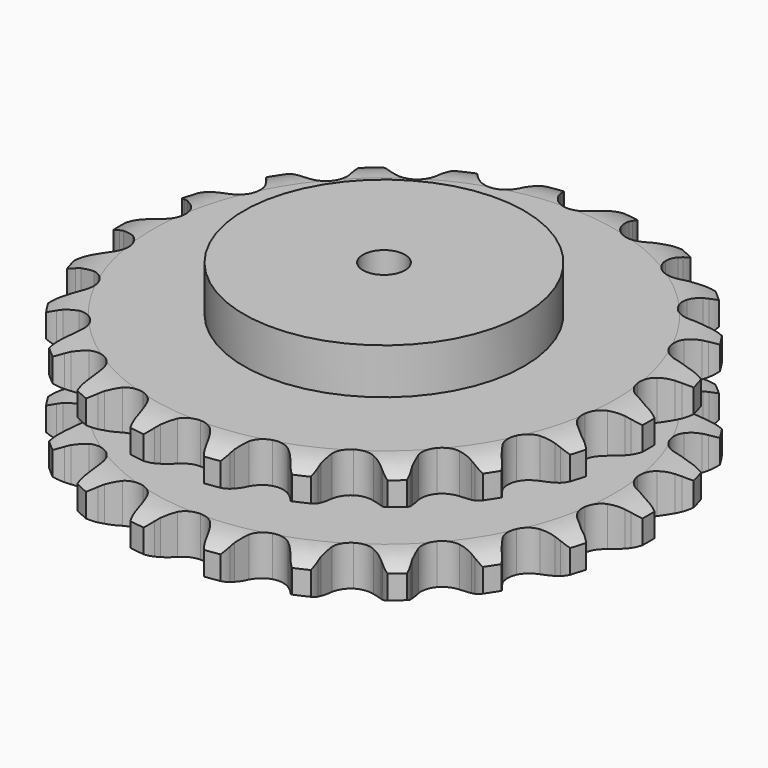
from build123d import *

# Parameters (mm, degrees)
PAD_DEPTH         = 87.4
SKETCH001_R       = 100
PAD001_DEPTH      = 120
SKETCH002_R       = 15
POCKET_DEPTH      = 0.001
POCKET_DEPTH_BACK = 120.001


with BuildPart() as part:
    # Sprocket → Pad (new body)
    with BuildSketch(Plane.XY):
        with BuildLine():
            ThreePointArc((-27.768956, 193.137329), (-22.075278, 188.222969), (-18.173572, 181.792914))
            Line((-18.173572, 181.792914), (-16.76017, 178.342005))
            ThreePointArc((-16.76017, 178.342005), (-14.499312, 173.734425), (-11.639459, 169.472675))
            ThreePointArc((-11.639459, 169.472675), (-6.482586, 165.26615), (0, 163.761399))
            ThreePointArc((0, 163.761399), (6.482586, 165.26615), (11.639459, 169.472675))
            ThreePointArc((11.639459, 169.472675), (14.499312, 173.734425), (16.76017, 178.342005))
            Line((16.76017, 178.342005), (18.173572, 181.792914))
            ThreePointArc((18.173572, 181.792914), (22.075278, 188.222969), (27.768956, 193.137329))
            ThreePointArc((27.768956, 193.137329), (31.847464, 186.81794), (33.779568, 179.549111))
            Line((33.779568, 179.549111), (34.163484, 175.839787))
            ThreePointArc((34.163484, 175.839787), (35.034655, 170.781888), (36.57799, 165.887055))
            ThreePointArc((36.57799, 165.887055), (40.340859, 160.398065), (46.136918, 157.127912))
            ThreePointArc((46.136918, 157.127912), (52.780851, 156.745354), (58.913949, 159.328626))
            Line((58.913949, 159.328626), (66.326015, 166.396016))
            ThreePointArc((66.326015, 166.396016), (67.454531, 167.880992), (68.654398, 169.308937))
            ThreePointArc((68.654398, 169.308937), (74.209612, 174.379291), (81.057191, 177.490491))
            ThreePointArc((81.057191, 177.490491), (83.190114, 170.278034), (82.996088, 162.759306))
            Line((82.996088, 162.759306), (82.319415, 159.092074))
            ThreePointArc((82.319415, 159.092074), (81.730324, 153.993619), (81.832109, 148.862253))
            ThreePointArc((81.832109, 148.862253), (83.896128, 142.535483), (88.536097, 137.764856))
            ThreePointArc((88.536097, 137.764856), (94.803125, 135.525982), (101.415582, 136.276719))
            Line((101.415582, 136.276719), (110.51852, 140.96961))
            ThreePointArc((110.51852, 140.96961), (112.01969, 142.076495), (113.573252, 143.108556))
            ThreePointArc((113.573252, 143.108556), (120.331925, 146.408441), (127.778656, 147.46443))
            ThreePointArc((127.778656, 147.46443), (127.793196, 139.943213), (125.488759, 132.783711))
            Line((125.488759, 132.783711), (123.806317, 129.455668))
            ThreePointArc((123.806317, 129.455668), (121.804687, 124.729702), (120.456677, 119.777517))
            ThreePointArc((120.456677, 119.777517), (120.654631, 113.125524), (123.762608, 107.24091))
            ThreePointArc((123.762608, 107.24091), (129.145013, 103.327101), (135.701127, 102.184483))
            Line((135.701127, 102.184483), (145.757472, 104.122685))
            ThreePointArc((145.757472, 104.122685), (147.509679, 104.761805), (149.291077, 105.314372))
            ThreePointArc((149.291077, 105.314372), (156.705661, 106.576449), (164.148253, 105.491677))
            ThreePointArc((164.148253, 105.491677), (162.043233, 98.271026), (157.815077, 92.050769))
            Line((157.815077, 92.050769), (155.263168, 89.331533))
            ThreePointArc((155.263168, 89.331533), (152.01116, 85.360927), (149.322561, 80.989118))
            ThreePointArc((149.322561, 80.989118), (147.638414, 74.550807), (148.962608, 68.028944))
            ThreePointArc((148.962608, 68.028944), (153.024341, 62.757272), (158.992973, 59.813869))
            Line((158.992973, 59.813869), (169.188021, 58.84036))
            ThreePointArc((169.188021, 58.84036), (171.049312, 58.959937), (172.914226, 58.988243))
            ThreePointArc((172.914226, 58.988243), (180.384036, 58.110268), (187.219535, 54.972616))
            ThreePointArc((187.219535, 54.972616), (183.165491, 48.637505), (177.356156, 43.860421))
            Line((177.356156, 43.860421), (174.14152, 41.970289))
            ThreePointArc((174.14152, 41.970289), (169.902592, 39.076717), (166.091219, 35.639463))
            ThreePointArc((166.091219, 35.639463), (162.661411, 29.936428), (162.094544, 23.305677))
            ThreePointArc((162.094544, 23.305677), (164.506547, 17.103223), (169.404155, 12.59749))
            Line((169.404155, 12.59749), (178.911962, 8.791138))
            ThreePointArc((178.911962, 8.791138), (180.731547, 8.381485), (182.528894, 7.883238))
            ThreePointArc((182.528894, 7.883238), (189.44877, 4.936338), (195.123404, 0))
            ThreePointArc((195.123404, 0), (189.44877, -4.936338), (182.528894, -7.883238))
            Line((182.528894, -7.883238), (178.911962, -8.791138))
            ThreePointArc((178.911962, -8.791138), (174.029526, -10.373256), (169.404155, -12.59749))
            ThreePointArc((169.404155, -12.59749), (164.506547, -17.103223), (162.094544, -23.305677))
            ThreePointArc((162.094544, -23.305677), (162.661411, -29.936428), (166.091219, -35.639463))
            Line((166.091219, -35.639463), (174.14152, -41.970289))
            ThreePointArc((174.14152, -41.970289), (175.771987, -42.875985), (177.356156, -43.860421))
            ThreePointArc((177.356156, -43.860421), (183.165491, -48.637505), (187.219535, -54.972616))
            ThreePointArc((187.219535, -54.972616), (180.384036, -58.110268), (172.914226, -58.988243))
            Line((172.914226, -58.988243), (169.188021, -58.84036))
            ThreePointArc((169.188021, -58.84036), (164.057624, -58.98285), (158.992973, -59.813869))
            ThreePointArc((158.992973, -59.813869), (153.024341, -62.757272), (148.962608, -68.028944))
            ThreePointArc((148.962608, -68.028944), (147.638414, -74.550807), (149.322561, -80.989118))
            Line((149.322561, -80.989118), (155.263168, -89.331533))
            ThreePointArc((155.263168, -89.331533), (156.572425, -90.659897), (157.815077, -92.050769))
            ThreePointArc((157.815077, -92.050769), (162.043233, -98.271026), (164.148253, -105.491677))
            ThreePointArc((164.148253, -105.491677), (156.705661, -106.576449), (149.291077, -105.314372))
            Line((149.291077, -105.314372), (145.757472, -104.122685))
            ThreePointArc((145.757472, -104.122685), (140.794748, -102.814004), (135.701127, -102.184483))
            ThreePointArc((135.701127, -102.184483), (129.145013, -103.327101), (123.762608, -107.24091))
            ThreePointArc((123.762608, -107.24091), (120.654631, -113.125524), (120.456677, -119.777517))
            Line((120.456677, -119.777517), (123.806317, -129.455668))
            ThreePointArc((123.806317, -129.455668), (124.688297, -131.099084), (125.488759, -132.783711))
            ThreePointArc((125.488759, -132.783711), (127.793196, -139.943213), (127.778656, -147.46443))
            ThreePointArc((127.778656, -147.46443), (120.331925, -146.408441), (113.573252, -143.108556))
            Line((113.573252, -143.108556), (110.51852, -140.96961))
            ThreePointArc((110.51852, -140.96961), (106.125519, -138.315779), (101.415582, -136.276719))
            ThreePointArc((101.415582, -136.276719), (94.803125, -135.525982), (88.536097, -137.764856))
            ThreePointArc((88.536097, -137.764856), (83.896128, -142.535483), (81.832109, -148.862253))
            Line((81.832109, -148.862253), (82.319415, -159.092074))
            ThreePointArc((82.319415, -159.092074), (82.702665, -160.917403), (82.996088, -162.759306))
            ThreePointArc((82.996088, -162.759306), (83.190114, -170.278034), (81.057191, -177.490491))
            ThreePointArc((81.057191, -177.490491), (74.209612, -174.379291), (68.654398, -169.308937))
            Line((68.654398, -169.308937), (66.326015, -166.396016))
            ThreePointArc((66.326015, -166.396016), (62.858632, -162.612032), (58.913949, -159.328626))
            ThreePointArc((58.913949, -159.328626), (52.780851, -156.745354), (46.136918, -157.127912))
            ThreePointArc((46.136918, -157.127912), (40.340859, -160.398065), (36.57799, -165.887055))
            Line((36.57799, -165.887055), (34.163484, -175.839787))
            ThreePointArc((34.163484, -175.839787), (34.016954, -177.699151), (33.779568, -179.549111))
            ThreePointArc((33.779568, -179.549111), (31.847464, -186.81794), (27.768956, -193.137329))
            ThreePointArc((27.768956, -193.137329), (22.075278, -188.222969), (18.173572, -181.792914))
            Line((18.173572, -181.792914), (16.76017, -178.342005))
            ThreePointArc((16.76017, -178.342005), (14.499312, -173.734425), (11.639459, -169.472675))
            ThreePointArc((11.639459, -169.472675), (6.482586, -165.26615), (0, -163.761399))
            ThreePointArc((0, -163.761399), (-6.482586, -165.26615), (-11.639459, -169.472675))
            Line((-11.639459, -169.472675), (-16.76017, -178.342005))
            ThreePointArc((-16.76017, -178.342005), (-17.424607, -180.08477), (-18.173572, -181.792914))
            ThreePointArc((-18.173572, -181.792914), (-22.075278, -188.222969), (-27.768956, -193.137329))
            ThreePointArc((-27.768956, -193.137329), (-31.847464, -186.81794), (-33.779568, -179.549111))
            Line((-33.779568, -179.549111), (-34.163484, -175.839787))
            ThreePointArc((-34.163484, -175.839787), (-35.034655, -170.781888), (-36.57799, -165.887055))
            ThreePointArc((-36.57799, -165.887055), (-40.340859, -160.398065), (-46.136918, -157.127912))
            ThreePointArc((-46.136918, -157.127912), (-52.780851, -156.745354), (-58.913949, -159.328626))
            Line((-58.913949, -159.328626), (-66.326015, -166.396016))
            ThreePointArc((-66.326015, -166.396016), (-67.454531, -167.880992), (-68.654398, -169.308937))
            ThreePointArc((-68.654398, -169.308937), (-74.209612, -174.379291), (-81.057191, -177.490491))
            ThreePointArc((-81.057191, -177.490491), (-83.190114, -170.278034), (-82.996088, -162.759306))
            Line((-82.996088, -162.759306), (-82.319415, -159.092074))
            ThreePointArc((-82.319415, -159.092074), (-81.730324, -153.993619), (-81.832109, -148.862253))
            ThreePointArc((-81.832109, -148.862253), (-83.896128, -142.535483), (-88.536097, -137.764856))
            ThreePointArc((-88.536097, -137.764856), (-94.803125, -135.525982), (-101.415582, -136.276719))
            Line((-101.415582, -136.276719), (-110.51852, -140.96961))
            ThreePointArc((-110.51852, -140.96961), (-112.01969, -142.076495), (-113.573252, -143.108556))
            ThreePointArc((-113.573252, -143.108556), (-120.331925, -146.408441), (-127.778656, -147.46443))
            ThreePointArc((-127.778656, -147.46443), (-127.793196, -139.943213), (-125.488759, -132.783711))
            Line((-125.488759, -132.783711), (-123.806317, -129.455668))
            ThreePointArc((-123.806317, -129.455668), (-121.804687, -124.729702), (-120.456677, -119.777517))
            ThreePointArc((-120.456677, -119.777517), (-120.654631, -113.125524), (-123.762608, -107.24091))
            ThreePointArc((-123.762608, -107.24091), (-129.145013, -103.327101), (-135.701127, -102.184483))
            Line((-135.701127, -102.184483), (-145.757472, -104.122685))
            ThreePointArc((-145.757472, -104.122685), (-147.509679, -104.761805), (-149.291077, -105.314372))
            ThreePointArc((-149.291077, -105.314372), (-156.705661, -106.576449), (-164.148253, -105.491677))
            ThreePointArc((-164.148253, -105.491677), (-162.043233, -98.271026), (-157.815077, -92.050769))
            Line((-157.815077, -92.050769), (-155.263168, -89.331533))
            ThreePointArc((-155.263168, -89.331533), (-152.01116, -85.360927), (-149.322561, -80.989118))
            ThreePointArc((-149.322561, -80.989118), (-147.638414, -74.550807), (-148.962608, -68.028944))
            ThreePointArc((-148.962608, -68.028944), (-153.024341, -62.757272), (-158.992973, -59.813869))
            Line((-158.992973, -59.813869), (-169.188021, -58.84036))
            ThreePointArc((-169.188021, -58.84036), (-171.049312, -58.959937), (-172.914226, -58.988243))
            ThreePointArc((-172.914226, -58.988243), (-180.384036, -58.110268), (-187.219535, -54.972616))
            ThreePointArc((-187.219535, -54.972616), (-183.165491, -48.637505), (-177.356156, -43.860421))
            Line((-177.356156, -43.860421), (-174.14152, -41.970289))
            ThreePointArc((-174.14152, -41.970289), (-169.902592, -39.076717), (-166.091219, -35.639463))
            ThreePointArc((-166.091219, -35.639463), (-162.661411, -29.936428), (-162.094544, -23.305677))
            ThreePointArc((-162.094544, -23.305677), (-164.506547, -17.103223), (-169.404155, -12.59749))
            Line((-169.404155, -12.59749), (-178.911962, -8.791138))
            ThreePointArc((-178.911962, -8.791138), (-180.731547, -8.381485), (-182.528894, -7.883238))
            ThreePointArc((-182.528894, -7.883238), (-189.44877, -4.936338), (-195.123404, 0))
            ThreePointArc((-195.123404, 0), (-189.44877, 4.936338), (-182.528894, 7.883238))
            Line((-182.528894, 7.883238), (-178.911962, 8.791138))
            ThreePointArc((-178.911962, 8.791138), (-174.029526, 10.373256), (-169.404155, 12.59749))
            ThreePointArc((-169.404155, 12.59749), (-164.506547, 17.103223), (-162.094544, 23.305677))
            ThreePointArc((-162.094544, 23.305677), (-162.661411, 29.936428), (-166.091219, 35.639463))
            Line((-166.091219, 35.639463), (-174.14152, 41.970289))
            ThreePointArc((-174.14152, 41.970289), (-175.771987, 42.875985), (-177.356156, 43.860421))
            ThreePointArc((-177.356156, 43.860421), (-183.165491, 48.637505), (-187.219535, 54.972616))
            ThreePointArc((-187.219535, 54.972616), (-180.384036, 58.110268), (-172.914226, 58.988243))
            Line((-172.914226, 58.988243), (-169.188021, 58.84036))
            ThreePointArc((-169.188021, 58.84036), (-164.057624, 58.98285), (-158.992973, 59.813869))
            ThreePointArc((-158.992973, 59.813869), (-153.024341, 62.757272), (-148.962608, 68.028944))
            ThreePointArc((-148.962608, 68.028944), (-147.638414, 74.550807), (-149.322561, 80.989118))
            Line((-149.322561, 80.989118), (-155.263168, 89.331533))
            ThreePointArc((-155.263168, 89.331533), (-156.572425, 90.659897), (-157.815077, 92.050769))
            ThreePointArc((-157.815077, 92.050769), (-162.043233, 98.271026), (-164.148253, 105.491677))
            ThreePointArc((-164.148253, 105.491677), (-156.705661, 106.576449), (-149.291077, 105.314372))
            Line((-149.291077, 105.314372), (-145.757472, 104.122685))
            ThreePointArc((-145.757472, 104.122685), (-140.794748, 102.814004), (-135.701127, 102.184483))
            ThreePointArc((-135.701127, 102.184483), (-129.145013, 103.327101), (-123.762608, 107.24091))
            ThreePointArc((-123.762608, 107.24091), (-120.654631, 113.125524), (-120.456677, 119.777517))
            Line((-120.456677, 119.777517), (-123.806317, 129.455668))
            ThreePointArc((-123.806317, 129.455668), (-124.688297, 131.099084), (-125.488759, 132.783711))
            ThreePointArc((-125.488759, 132.783711), (-127.793196, 139.943213), (-127.778656, 147.46443))
            ThreePointArc((-127.778656, 147.46443), (-120.331925, 146.408441), (-113.573252, 143.108556))
            Line((-113.573252, 143.108556), (-110.51852, 140.96961))
            ThreePointArc((-110.51852, 140.96961), (-106.125519, 138.315779), (-101.415582, 136.276719))
            ThreePointArc((-101.415582, 136.276719), (-94.803125, 135.525982), (-88.536097, 137.764856))
            ThreePointArc((-88.536097, 137.764856), (-83.896128, 142.535483), (-81.832109, 148.862253))
            Line((-81.832109, 148.862253), (-82.319415, 159.092074))
            ThreePointArc((-82.319415, 159.092074), (-82.702665, 160.917403), (-82.996088, 162.759306))
            ThreePointArc((-82.996088, 162.759306), (-83.190114, 170.278034), (-81.057191, 177.490491))
            ThreePointArc((-81.057191, 177.490491), (-74.209612, 174.379291), (-68.654398, 169.308937))
            Line((-68.654398, 169.308937), (-66.326015, 166.396016))
            ThreePointArc((-66.326015, 166.396016), (-62.858632, 162.612032), (-58.913949, 159.328626))
            ThreePointArc((-58.913949, 159.328626), (-52.780851, 156.745354), (-46.136918, 157.127912))
            ThreePointArc((-46.136918, 157.127912), (-40.340859, 160.398065), (-36.57799, 165.887055))
            Line((-36.57799, 165.887055), (-34.163484, 175.839787))
            ThreePointArc((-34.163484, 175.839787), (-34.016954, 177.699151), (-33.779568, 179.549111))
            ThreePointArc((-33.779568, 179.549111), (-31.847464, 186.81794), (-27.768956, 193.137329))
        make_face()
    extrude(amount=PAD_DEPTH)

    # Sketch → Groove (revolve, cut)
    with BuildSketch(Plane.XZ):
        with BuildLine():
            ThreePointArc((164.75, 0), (177.119317, 1.522732), (188.75, 6))
            Line((188.75, 6), (188.75, 22.8))
            ThreePointArc((188.75, 22.8), (177.119317, 27.277268), (164.75, 28.8))
            Line((100, 28.8), (164.75, 28.8))
            Line((100, 58.6), (100, 28.8))
            Line((164.75, 58.6), (100, 58.6))
            ThreePointArc((164.75, 58.6), (177.119317, 60.122732), (188.75, 64.6))
            Line((188.75, 64.6), (188.75, 81.4))
            ThreePointArc((188.75, 81.4), (177.119317, 85.877268), (164.75, 87.4))
            Line((164.75, 87.4), (198.75, 87.4))
            Line((198.75, 87.4), (198.75, 0))
            Line((164.75, 0), (198.75, 0))
        make_face()
    revolve(axis=Axis((0, 0, 0), (0, 0, 1)), mode=Mode.SUBTRACT)

    # Sketch001 → Pad001 (join)
    with BuildSketch(Plane.XY):
        Circle(SKETCH001_R)
    extrude(amount=PAD001_DEPTH)

    # Sketch002 → Pocket (cut, two sides)
    with BuildSketch(Plane.XY) as pocket_sk:
        Circle(SKETCH002_R)
    extrude(amount=-POCKET_DEPTH, mode=Mode.SUBTRACT)
    extrude(pocket_sk.sketch, amount=POCKET_DEPTH_BACK, mode=Mode.SUBTRACT)


solid = part.part
